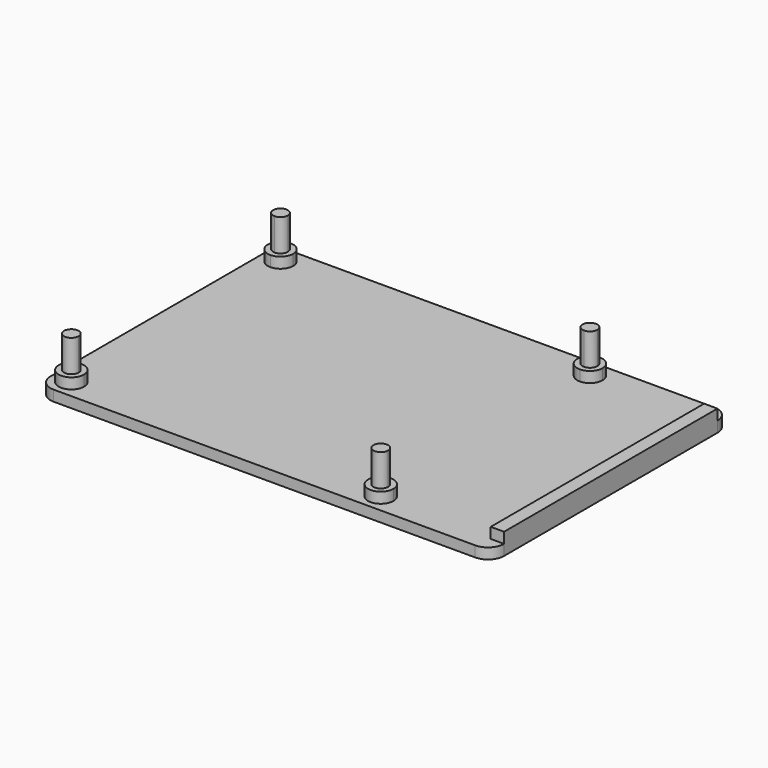
from build123d import *

# Parameters (mm, degrees)
F0_W     = 2.5
F0_H     = 50
F1_DEPTH = 2
F2_DEPTH = 4
F3_DEPTH = 4
F4_DEPTH = 10


with BuildPart() as f1:
    # F0 (on Top) → F1 (new body)
    with BuildSketch(Plane.XY):
        with BuildLine():
            ThreePointArc((-32.5, -25), (-31.6213203436, -27.1213203436), (-29.5, -28))
            Line((-29.5, -28), (-29.0716141462, -28))
            Line((-29.0716141462, -28), (49.5, -28))
            ThreePointArc((49.5, -28), (51.6213203436, -27.1213203436), (52.5, -25))
            Line((52.5, -25), (50, -25))
            Line((50, -25), (50, 25))
            Line((50, 25), (52.5, 25))
            ThreePointArc((52.5, 25), (51.6213203436, 27.1213203436), (49.5, 28))
            Line((49.5, 28), (-29.5, 28))
            ThreePointArc((-29.5, 28), (-31.6213203436, 27.1213203436), (-32.5, 25))
            Line((-32.5, 25), (-32.5, -24.5))
            Line((-32.5, -24.5), (-32.5, -25))
        make_face()
        with BuildLine():
            ThreePointArc((-29, 22.125), (-30.6793786053, 26.1793786053), (-26.625, 24.5))
            Line((-26.625, 24.5), (26.625, 24.5))
            ThreePointArc((26.625, 24.5), (29, 26.875), (31.375, 24.5))
            ThreePointArc((31.375, 24.5), (30.6793786053, 22.8206213947), (29, 22.125))
            Line((29, 22.125), (29, -22.125))
            ThreePointArc((29, -22.125), (30.6793786053, -22.8206213947), (31.375, -24.5))
            ThreePointArc((31.375, -24.5), (29, -26.875), (26.625, -24.5))
            Line((26.625, -24.5), (-26.625, -24.5))
            ThreePointArc((-26.625, -24.5), (-30.6793786053, -26.1793786053), (-29, -22.125))
            Line((-29, -22.125), (-29, 22.125))
        make_face(mode=Mode.SUBTRACT)
        with BuildLine():
            Line((26.625, 24.5), (-26.625, 24.5))
            ThreePointArc((-26.625, 24.5), (-27.3206213947, 22.8206213947), (-29, 22.125))
            Line((-29, 22.125), (-29, -22.125))
            ThreePointArc((-29, -22.125), (-27.3206213947, -22.8206213947), (-26.625, -24.5))
            Line((-26.625, -24.5), (26.625, -24.5))
            ThreePointArc((26.625, -24.5), (27.3206213947, -22.8206213947), (29, -22.125))
            Line((29, -22.125), (29, 22.125))
            ThreePointArc((29, 22.125), (27.3206213947, 22.8206213947), (26.625, 24.5))
        make_face()
        with BuildLine():
            Line((-29, 23.125), (-29, 24.5))
            Line((-29, 24.5), (-27.625, 24.5))
            ThreePointArc((-27.625, 24.5), (-29.9722718241, 25.4722718241), (-29, 23.125))
        make_face()
        with BuildLine():
            ThreePointArc((-29, 23.125), (-29.9722718241, 25.4722718241), (-27.625, 24.5))
            Line((-27.625, 24.5), (-26.625, 24.5))
            ThreePointArc((-26.625, 24.5), (-30.6793786053, 26.1793786053), (-29, 22.125))
            Line((-29, 22.125), (-29, 23.125))
        make_face()
        with BuildLine():
            Line((-27.625, 24.5), (-29, 24.5))
            Line((-29, 24.5), (-29, 23.125))
            ThreePointArc((-29, 23.125), (-28.0277281759, 23.5277281759), (-27.625, 24.5))
        make_face()
        with BuildLine():
            Line((-26.625, 24.5), (-27.625, 24.5))
            ThreePointArc((-27.625, 24.5), (-28.0277281759, 23.5277281759), (-29, 23.125))
            Line((-29, 23.125), (-29, 22.125))
            ThreePointArc((-29, 22.125), (-27.3206213947, 22.8206213947), (-26.625, 24.5))
        make_face()
        with BuildLine():
            Line((-29, -24.5), (-29, -23.125))
            ThreePointArc((-29, -23.125), (-29.9722718241, -25.4722718241), (-27.625, -24.5))
            Line((-27.625, -24.5), (-29, -24.5))
        make_face()
        with BuildLine():
            Line((-29, -23.125), (-29, -22.125))
            ThreePointArc((-29, -22.125), (-30.6793786053, -26.1793786053), (-26.625, -24.5))
            Line((-26.625, -24.5), (-27.625, -24.5))
            ThreePointArc((-27.625, -24.5), (-29.9722718241, -25.4722718241), (-29, -23.125))
        make_face()
        with BuildLine():
            ThreePointArc((-27.625, -24.5), (-28.0277281759, -23.5277281759), (-29, -23.125))
            Line((-29, -23.125), (-29, -24.5))
            Line((-29, -24.5), (-27.625, -24.5))
        make_face()
        with BuildLine():
            ThreePointArc((-26.625, -24.5), (-27.3206213947, -22.8206213947), (-29, -22.125))
            Line((-29, -22.125), (-29, -23.125))
            ThreePointArc((-29, -23.125), (-28.0277281759, -23.5277281759), (-27.625, -24.5))
            Line((-27.625, -24.5), (-26.625, -24.5))
        make_face()
        with BuildLine():
            Line((29, -23.125), (29, -22.125))
            ThreePointArc((29, -22.125), (27.3206213947, -22.8206213947), (26.625, -24.5))
            Line((26.625, -24.5), (27.625, -24.5))
            ThreePointArc((27.625, -24.5), (28.0277281759, -23.5277281759), (29, -23.125))
        make_face()
        with BuildLine():
            Line((29, -24.5), (29, -23.125))
            ThreePointArc((29, -23.125), (28.0277281759, -23.5277281759), (27.625, -24.5))
            Line((27.625, -24.5), (29, -24.5))
        make_face()
        with BuildLine():
            ThreePointArc((31.375, -24.5), (30.6793786053, -22.8206213947), (29, -22.125))
            Line((29, -22.125), (29, -23.125))
            ThreePointArc((29, -23.125), (29.9722718241, -23.5277281759), (30.375, -24.5))
            ThreePointArc((30.375, -24.5), (29, -25.875), (27.625, -24.5))
            Line((27.625, -24.5), (26.625, -24.5))
            ThreePointArc((26.625, -24.5), (29, -26.875), (31.375, -24.5))
        make_face()
        with BuildLine():
            ThreePointArc((30.375, -24.5), (29.9722718241, -23.5277281759), (29, -23.125))
            Line((29, -23.125), (29, -24.5))
            Line((29, -24.5), (27.625, -24.5))
            ThreePointArc((27.625, -24.5), (29, -25.875), (30.375, -24.5))
        make_face()
        with BuildLine():
            ThreePointArc((31.375, 24.5), (29, 26.875), (26.625, 24.5))
            Line((26.625, 24.5), (27.625, 24.5))
            ThreePointArc((27.625, 24.5), (29, 25.875), (30.375, 24.5))
            ThreePointArc((30.375, 24.5), (29.9722718241, 23.5277281759), (29, 23.125))
            Line((29, 23.125), (29, 22.125))
            ThreePointArc((29, 22.125), (30.6793786053, 22.8206213947), (31.375, 24.5))
        make_face()
        with BuildLine():
            ThreePointArc((30.375, 24.5), (29, 25.875), (27.625, 24.5))
            Line((27.625, 24.5), (29, 24.5))
            Line((29, 24.5), (29, 23.125))
            ThreePointArc((29, 23.125), (29.9722718241, 23.5277281759), (30.375, 24.5))
        make_face()
        with BuildLine():
            Line((29, 24.5), (27.625, 24.5))
            ThreePointArc((27.625, 24.5), (28.0277281759, 23.5277281759), (29, 23.125))
            Line((29, 23.125), (29, 24.5))
        make_face()
        with BuildLine():
            Line((27.625, 24.5), (26.625, 24.5))
            ThreePointArc((26.625, 24.5), (27.3206213947, 22.8206213947), (29, 22.125))
            Line((29, 22.125), (29, 23.125))
            ThreePointArc((29, 23.125), (28.0277281759, 23.5277281759), (27.625, 24.5))
        make_face()
        with Locations((51.25, 0)):
            Rectangle(F0_W, F0_H)
    extrude(amount=F1_DEPTH)

    # F0 (on Top) → F2 (join)
    with BuildSketch(Plane.XY):
        with Locations((51.25, 0)):
            Rectangle(F0_W, F0_H)
    extrude(amount=F2_DEPTH)

    # F0 (on Top) → F3 (join)
    with BuildSketch(Plane.XY):
        with BuildLine():
            Line((-29, -23.125), (-29, -22.125))
            ThreePointArc((-29, -22.125), (-30.6793786053, -26.1793786053), (-26.625, -24.5))
            Line((-26.625, -24.5), (-27.625, -24.5))
            ThreePointArc((-27.625, -24.5), (-29.9722718241, -25.4722718241), (-29, -23.125))
        make_face()
        with BuildLine():
            ThreePointArc((-26.625, -24.5), (-27.3206213947, -22.8206213947), (-29, -22.125))
            Line((-29, -22.125), (-29, -23.125))
            ThreePointArc((-29, -23.125), (-28.0277281759, -23.5277281759), (-27.625, -24.5))
            Line((-27.625, -24.5), (-26.625, -24.5))
        make_face()
        with BuildLine():
            Line((29, -23.125), (29, -22.125))
            ThreePointArc((29, -22.125), (27.3206213947, -22.8206213947), (26.625, -24.5))
            Line((26.625, -24.5), (27.625, -24.5))
            ThreePointArc((27.625, -24.5), (28.0277281759, -23.5277281759), (29, -23.125))
        make_face()
        with BuildLine():
            ThreePointArc((31.375, -24.5), (30.6793786053, -22.8206213947), (29, -22.125))
            Line((29, -22.125), (29, -23.125))
            ThreePointArc((29, -23.125), (29.9722718241, -23.5277281759), (30.375, -24.5))
            ThreePointArc((30.375, -24.5), (29, -25.875), (27.625, -24.5))
            Line((27.625, -24.5), (26.625, -24.5))
            ThreePointArc((26.625, -24.5), (29, -26.875), (31.375, -24.5))
        make_face()
        with BuildLine():
            ThreePointArc((31.375, 24.5), (29, 26.875), (26.625, 24.5))
            Line((26.625, 24.5), (27.625, 24.5))
            ThreePointArc((27.625, 24.5), (29, 25.875), (30.375, 24.5))
            ThreePointArc((30.375, 24.5), (29.9722718241, 23.5277281759), (29, 23.125))
            Line((29, 23.125), (29, 22.125))
            ThreePointArc((29, 22.125), (30.6793786053, 22.8206213947), (31.375, 24.5))
        make_face()
        with BuildLine():
            Line((27.625, 24.5), (26.625, 24.5))
            ThreePointArc((26.625, 24.5), (27.3206213947, 22.8206213947), (29, 22.125))
            Line((29, 22.125), (29, 23.125))
            ThreePointArc((29, 23.125), (28.0277281759, 23.5277281759), (27.625, 24.5))
        make_face()
        with BuildLine():
            ThreePointArc((-29, 23.125), (-29.9722718241, 25.4722718241), (-27.625, 24.5))
            Line((-27.625, 24.5), (-26.625, 24.5))
            ThreePointArc((-26.625, 24.5), (-30.6793786053, 26.1793786053), (-29, 22.125))
            Line((-29, 22.125), (-29, 23.125))
        make_face()
        with BuildLine():
            Line((-26.625, 24.5), (-27.625, 24.5))
            ThreePointArc((-27.625, 24.5), (-28.0277281759, 23.5277281759), (-29, 23.125))
            Line((-29, 23.125), (-29, 22.125))
            ThreePointArc((-29, 22.125), (-27.3206213947, 22.8206213947), (-26.625, 24.5))
        make_face()
    extrude(amount=F3_DEPTH)

    # F0 (on Top) → F4 (join)
    with BuildSketch(Plane.XY):
        with BuildLine():
            ThreePointArc((30.375, -24.5), (29.9722718241, -23.5277281759), (29, -23.125))
            Line((29, -23.125), (29, -24.5))
            Line((29, -24.5), (27.625, -24.5))
            ThreePointArc((27.625, -24.5), (29, -25.875), (30.375, -24.5))
        make_face()
        with BuildLine():
            Line((29, -24.5), (29, -23.125))
            ThreePointArc((29, -23.125), (28.0277281759, -23.5277281759), (27.625, -24.5))
            Line((27.625, -24.5), (29, -24.5))
        make_face()
        with BuildLine():
            Line((-29, -24.5), (-29, -23.125))
            ThreePointArc((-29, -23.125), (-29.9722718241, -25.4722718241), (-27.625, -24.5))
            Line((-27.625, -24.5), (-29, -24.5))
        make_face()
        with BuildLine():
            ThreePointArc((-27.625, -24.5), (-28.0277281759, -23.5277281759), (-29, -23.125))
            Line((-29, -23.125), (-29, -24.5))
            Line((-29, -24.5), (-27.625, -24.5))
        make_face()
        with BuildLine():
            Line((-29, 23.125), (-29, 24.5))
            Line((-29, 24.5), (-27.625, 24.5))
            ThreePointArc((-27.625, 24.5), (-29.9722718241, 25.4722718241), (-29, 23.125))
        make_face()
        with BuildLine():
            Line((-27.625, 24.5), (-29, 24.5))
            Line((-29, 24.5), (-29, 23.125))
            ThreePointArc((-29, 23.125), (-28.0277281759, 23.5277281759), (-27.625, 24.5))
        make_face()
        with BuildLine():
            ThreePointArc((30.375, 24.5), (29, 25.875), (27.625, 24.5))
            Line((27.625, 24.5), (29, 24.5))
            Line((29, 24.5), (29, 23.125))
            ThreePointArc((29, 23.125), (29.9722718241, 23.5277281759), (30.375, 24.5))
        make_face()
        with BuildLine():
            Line((29, 24.5), (27.625, 24.5))
            ThreePointArc((27.625, 24.5), (28.0277281759, 23.5277281759), (29, 23.125))
            Line((29, 23.125), (29, 24.5))
        make_face()
    extrude(amount=F4_DEPTH)


solid = f1.part
